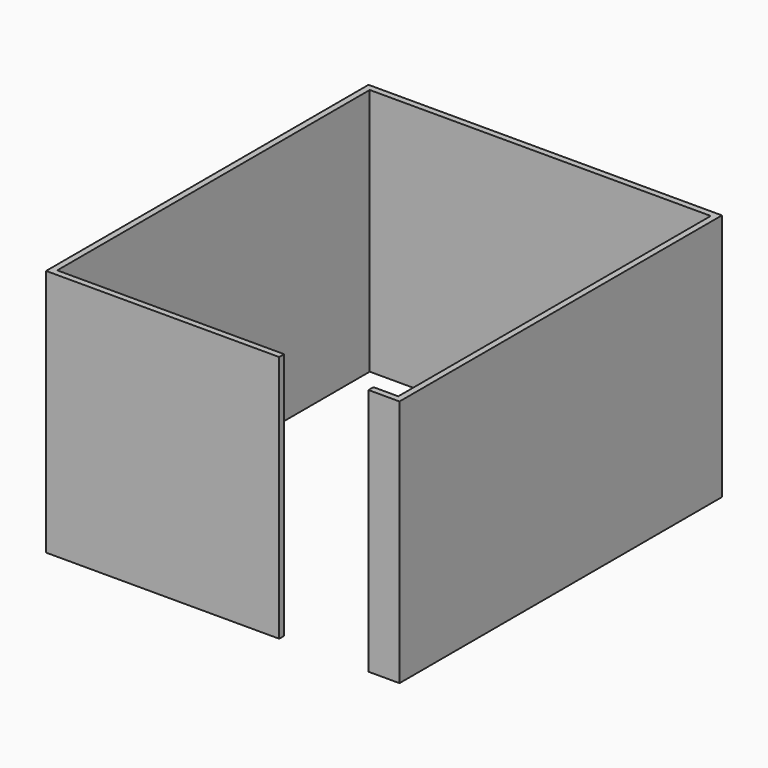
from build123d import *

# Parameters (mm, degrees)
F0_W     = 2850
F0_H     = 3250
F0_W_2   = 2750
F0_H_2   = 3150
F1_DEPTH = 2000
F2_W     = 720
F2_H     = 50
F3_DEPTH = 2000


with BuildPart() as f1:
    # F0 (on Top) → F1 (new body)
    with BuildSketch(Plane.XY):
        Rectangle(F0_W, F0_H)
        Rectangle(F0_W_2, F0_H_2, mode=Mode.SUBTRACT)
    extrude(amount=F1_DEPTH)

    # F2 (on face) → F3 (cut, through all)
    with BuildSketch(Plane.XY.offset(2000)):
        with Locations((815, -1600)):
            Rectangle(F2_W, F2_H)
    extrude(amount=-F3_DEPTH, mode=Mode.SUBTRACT)


solid = f1.part
